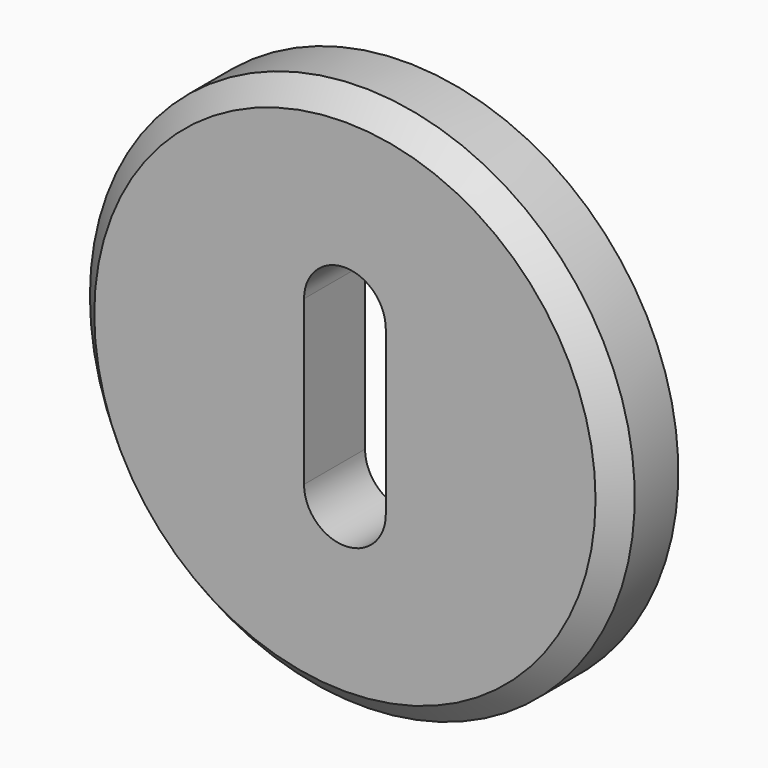
from build123d import *

# Parameters (mm, degrees)
EXTRUDE020_DEPTH         = 10
CIRCLE002_R              = 25
EXTRUDE019_DEPTH         = 7
CHAMFER002_SIZE          = 2
CLONE049_PLACEMENT_ANGLE = 180


with BuildPart() as extrude020:
    # Sketch030 (on Face4 of Chamfer002) → Extrude020 (new body, symmetric)
    with BuildSketch(Plane(origin=(0, 7, 0), x_dir=(-1, 0, 0), z_dir=(0, 1, 0))):
        with BuildLine():
            ThreePointArc((3.75, 7.5), (0, 11.25), (-3.75, 7.5))
            Line((-3.75, 7.5), (-3.75, -7.5))
            ThreePointArc((-3.75, -7.5), (0, -11.25), (3.75, -7.5))
            Line((3.75, 7.5), (3.75, -7.5))
        make_face()
    extrude(amount=EXTRUDE020_DEPTH, both=True)


with BuildPart() as shutters_lock_right_external:
    # Circle002 → Extrude019 (new body)
    with BuildSketch(Plane.XZ):
        Circle(CIRCLE002_R)
    extrude(amount=-EXTRUDE019_DEPTH)

    # Chamfer002
    chamfer002_edges = [shutters_lock_right_external.edges().sort_by_distance(p)[0] for p in [
        (-25, 7, 0),
    ]]
    chamfer(chamfer002_edges, length=CHAMFER002_SIZE)

    # Cut004: cut Extrude020
    add(extrude020.part, mode=Mode.SUBTRACT)


with BuildPart() as shutters_lock_right_external_1:
    # Cut004 placement: moved
    add(shutters_lock_right_external.part.moved(Location((0, 0, -83.343755))))


with BuildPart() as shutters_lock_right_external_2:
    # Clone049 placement: moved
    add(shutters_lock_right_external_1.part.moved(Location((-325, -140, -133.343755))).rotate(Axis((-325, -140, -133.343755), (1, 0, 0)), CLONE049_PLACEMENT_ANGLE))


with BuildPart() as shutters_lock_left_external_mirrored:
    # Mirror180: instance of Shutters_lock_right_external_
    add(shutters_lock_right_external_2.part.mirror(Plane(origin=(0, 0, 0), x_dir=(0, -1, 0), z_dir=(1, 0, 0))))


solid = shutters_lock_left_external_mirrored.part
